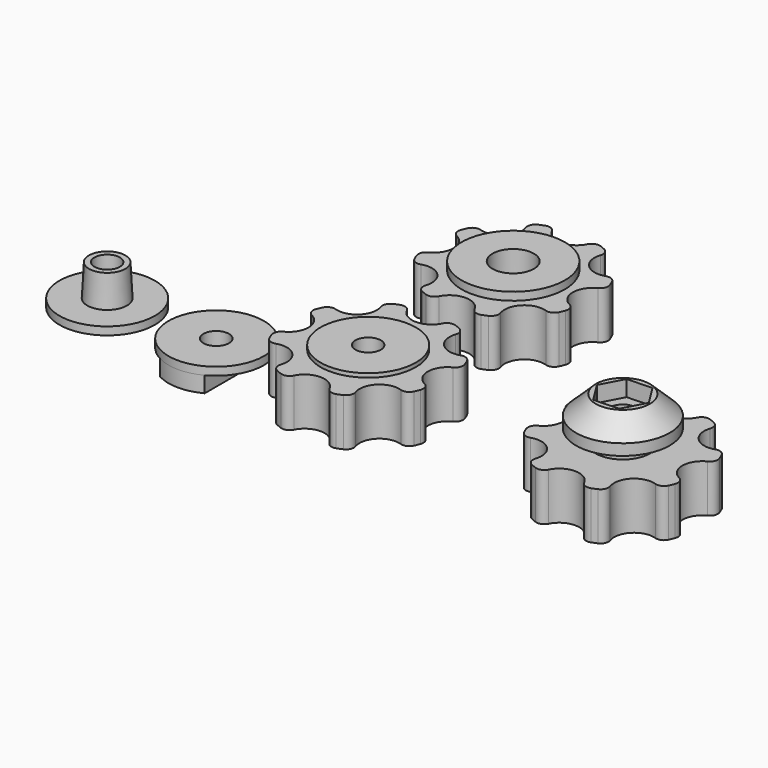
from build123d import *

# Parameters (mm, degrees)
F0_R      = 6
F1_DEPTH  = 1
F2_R      = 2.5
F3_DEPTH  = 4
F3_TAPER  = 3
F4_R      = 1.6
F5_DEPTH  = 25
F6_R      = 6
F6_R_2    = 1.6
F7_DEPTH  = 1
F8_R      = 1.6
F9_DEPTH  = 2
F10_R     = 1.6
F11_DEPTH = 6
F12_R     = 6
F12_R_2   = 1.6
F13_DEPTH = 0.5
F15_DEPTH = 3
F18_R     = 1.6
F19_DEPTH = 25
F21_DEPTH = 2
F22_R     = 13.3783458348
F23_DEPTH = 25
F24_R     = 2.6
F25_DEPTH = 6
F26_R     = 6.5
F26_R_2   = 2.6
F27_DEPTH = 1


with BuildPart() as f1:
    # F0 (on Top) → F1 (new body)
    with BuildSketch(Plane.XY):
        Circle(F0_R)
    extrude(amount=F1_DEPTH)

    # F2 (on face) → F3 (join)
    with BuildSketch(Plane.XY.offset(1)):
        Circle(F2_R)
    extrude(amount=F3_DEPTH, taper=F3_TAPER)

    # F4 (on face) → F5 (cut)
    with BuildSketch(Plane(origin=(0, 0, 0), x_dir=(1, 0, 0), z_dir=(0, 0, -1))):
        Circle(F4_R)
    extrude(amount=-F5_DEPTH, mode=Mode.SUBTRACT)


with BuildPart() as f7:
    # F6 (on Top) → F7 (new body)
    with BuildSketch(Plane.XY):
        with Locations((13.7166492641, 0)):
            Circle(F6_R)
        with Locations((13.7166492641, 0)):
            Circle(F6_R_2, mode=Mode.SUBTRACT)
    extrude(amount=F7_DEPTH)

    # F8 (on face) → F9 (join)
    with BuildSketch(Plane(origin=(0, 0, 0), x_dir=(1, 0, 0), z_dir=(0, 0, -1))):
        with BuildLine():
            ThreePointArc((16.5166492641, 5.3065996646), (13.7166492641, 6), (10.9166492641, 5.3065996646))
            Line((10.9166492641, 5.3065996646), (10.9166492641, -5.3065996646))
            ThreePointArc((10.9166492641, -5.3065996646), (13.7166492641, -6), (16.5166492641, -5.3065996646))
            Line((16.5166492641, -5.3065996646), (16.5166492641, 5.3065996646))
        make_face()
        with Locations((13.7166492641, 0)):
            Circle(F8_R, mode=Mode.SUBTRACT)
    extrude(amount=F9_DEPTH)


with BuildPart() as f11:
    # F10 (on Top) → F11 (new body)
    with BuildSketch(Plane.XY):
        with BuildLine():
            ThreePointArc((37.5331200351, 7.8637180754), (37.5021955155, 8.5785579566), (37.0015644506, 9.0897535343))
            ThreePointArc((37.0015644506, 9.0897535343), (36.6599001613, 9.2387953251), (36.3129185644, 9.375))
            ThreePointArc((36.3129185644, 9.375), (35.5974490841, 9.3675297614), (35.0701140191, 8.8839285714))
            ThreePointArc((35.0701140191, 8.8839285714), (32.8330658376, 7.5), (30.5960176561, 8.8839285714))
            ThreePointArc((30.5960176561, 8.8839285714), (30.0686825912, 9.3675297614), (29.3532131109, 9.375))
            ThreePointArc((29.3532131109, 9.375), (29.006231514, 9.2387953251), (28.6645672246, 9.0897535343))
            ThreePointArc((28.6645672246, 9.0897535343), (28.1639361597, 8.5785579566), (28.1330116402, 7.8637180754))
            ThreePointArc((28.1330116402, 7.8637180754), (27.5297649787, 5.3033008589), (24.9693477622, 4.7000541975))
            ThreePointArc((24.9693477622, 4.7000541975), (24.254507881, 4.6691296779), (23.7433123034, 4.168498613))
            ThreePointArc((23.7433123034, 4.168498613), (23.5942705125, 3.8268343237), (23.4580658376, 3.4798527268))
            ThreePointArc((23.4580658376, 3.4798527268), (23.4655360762, 2.7643832465), (23.9491372662, 2.2370481815))
            ThreePointArc((23.9491372662, 2.2370481815), (25.3330658376, 0), (23.9491372662, -2.2370481815))
            ThreePointArc((23.9491372662, -2.2370481815), (23.4655360762, -2.7643832465), (23.4580658376, -3.4798527268))
            ThreePointArc((23.4580658376, -3.4798527268), (23.5942705125, -3.8268343237), (23.7433123034, -4.168498613))
            ThreePointArc((23.7433123034, -4.168498613), (24.254507881, -4.6691296779), (24.9693477622, -4.7000541975))
            ThreePointArc((24.9693477622, -4.7000541975), (27.5297649787, -5.3033008589), (28.1330116402, -7.8637180754))
            ThreePointArc((28.1330116402, -7.8637180754), (28.1639361597, -8.5785579566), (28.6645672246, -9.0897535343))
            ThreePointArc((28.6645672246, -9.0897535343), (29.006231514, -9.2387953251), (29.3532131109, -9.375))
            ThreePointArc((29.3532131109, -9.375), (30.0686825912, -9.3675297614), (30.5960176561, -8.8839285714))
            ThreePointArc((30.5960176561, -8.8839285714), (32.8330658376, -7.5), (35.0701140191, -8.8839285714))
            ThreePointArc((35.0701140191, -8.8839285714), (35.5974490841, -9.3675297614), (36.3129185644, -9.375))
            ThreePointArc((36.3129185644, -9.375), (36.6599001613, -9.2387953251), (37.0015644506, -9.0897535343))
            ThreePointArc((37.0015644506, -9.0897535343), (37.5021955155, -8.5785579566), (37.5331200351, -7.8637180754))
            ThreePointArc((37.5331200351, -7.8637180754), (38.1363666965, -5.3033008589), (40.696783913, -4.7000541975))
            ThreePointArc((40.696783913, -4.7000541975), (41.4116237943, -4.6691296779), (41.9228193719, -4.168498613))
            ThreePointArc((41.9228193719, -4.168498613), (42.0718611627, -3.8268343237), (42.2080658376, -3.4798527268))
            ThreePointArc((42.2080658376, -3.4798527268), (42.2005955991, -2.7643832465), (41.7169944091, -2.2370481815))
            ThreePointArc((41.7169944091, -2.2370481815), (40.3330658376, 0), (41.7169944091, 2.2370481815))
            ThreePointArc((41.7169944091, 2.2370481815), (42.2005955991, 2.7643832465), (42.2080658376, 3.4798527268))
            ThreePointArc((42.2080658376, 3.4798527268), (42.0718611627, 3.8268343237), (41.9228193719, 4.168498613))
            ThreePointArc((41.9228193719, 4.168498613), (41.4116237943, 4.6691296779), (40.696783913, 4.7000541975))
            ThreePointArc((40.696783913, 4.7000541975), (38.1363666965, 5.3033008589), (37.5331200351, 7.8637180754))
        make_face()
        with Locations((32.8330658376, 0)):
            Circle(F10_R, mode=Mode.SUBTRACT)
    extrude(amount=F11_DEPTH)

    # F12 (on face) → F13 (join)
    with BuildSketch(Plane.XY.offset(6)):
        with Locations((32.8330658376, 0)):
            Circle(F12_R)
        with Locations((32.8330658376, 0)):
            Circle(F12_R_2, mode=Mode.SUBTRACT)
    extrude(amount=F13_DEPTH)

    # F14 (on face) → F15 (cut)
    with BuildSketch(Plane(origin=(0, 0, 0), x_dir=(1, 0, 0), z_dir=(0, 0, -1))):
        Polygon((35.5830658376, -1.5877132403), (35.5830658376, 1.5877132403), (32.8330658376, 3.1754264805), (30.0830658376, 1.5877132403), (30.0830658376, -1.5877132403), (32.8330658376, -3.1754264805), align=None)
    extrude(amount=-F15_DEPTH, mode=Mode.SUBTRACT)


with BuildPart() as f17:
    # F16 (on Front) → F17 (revolve)
    with BuildSketch(Plane.XZ):
        Polygon((68.263714773, 11.5), (64.863714773, 11.5), (64.863714773, 0), (74.863714773, 0), (74.863714773, 6), (68.263714773, 6), (68.263714773, 7.7), (70.763714773, 7.7), (70.763714773, 9.1), align=None)
    revolve(axis=Axis((64.863714773, 0, 5.75), (0, 0, 1)))

    # F18 (on face) → F19 (cut)
    with BuildSketch(Plane.XY.offset(11.5)):
        with Locations((64.863714773, 0)):
            Circle(F18_R)
    extrude(amount=-F19_DEPTH, mode=Mode.SUBTRACT)

    # F20 (on face) → F21 (cut)
    with BuildSketch(Plane.XY.offset(11.5)):
        Polygon((66.555835944, -2.6870167986), (68.0368001665, 0.1219115211), (66.3446789954, 2.8089283197), (63.1715936019, 2.6870167986), (61.6906293795, -0.1219115211), (63.3827505505, -2.8089283197), align=None)
    extrude(amount=-F21_DEPTH, mode=Mode.SUBTRACT)

    # F22 (on face) → F23 (cut)
    with BuildSketch(Plane(origin=(0, 0, 0), x_dir=(1, 0, 0), z_dir=(0, 0, -1))):
        with Locations((64.863714773, 0)):
            Circle(F22_R)
        with BuildLine():
            ThreePointArc((61.3838620462, 9.375), (62.0993315265, 9.3675297614), (62.6266665915, 8.8839285714))
            ThreePointArc((62.6266665915, 8.8839285714), (64.863714773, 7.5), (67.1007629545, 8.8839285714))
            ThreePointArc((67.1007629545, 8.8839285714), (67.6280980194, 9.3675297614), (68.3435674997, 9.375))
            ThreePointArc((68.3435674997, 9.375), (68.6905490966, 9.2387953251), (69.032213386, 9.0897535343))
            ThreePointArc((69.032213386, 9.0897535343), (69.5328444509, 8.5785579566), (69.5637689704, 7.8637180754))
            ThreePointArc((69.5637689704, 7.8637180754), (70.1670156319, 5.3033008589), (72.7274328484, 4.7000541975))
            ThreePointArc((72.7274328484, 4.7000541975), (73.4422727296, 4.6691296779), (73.9534683072, 4.168498613))
            ThreePointArc((73.9534683072, 4.168498613), (74.1025100981, 3.8268343237), (74.238714773, 3.4798527268))
            ThreePointArc((74.238714773, 3.4798527268), (74.2312445344, 2.7643832465), (73.7476433444, 2.2370481815))
            ThreePointArc((73.7476433444, 2.2370481815), (72.363714773, 0), (73.7476433444, -2.2370481815))
            ThreePointArc((73.7476433444, -2.2370481815), (74.2312445344, -2.7643832465), (74.238714773, -3.4798527268))
            ThreePointArc((74.238714773, -3.4798527268), (74.1025100981, -3.8268343237), (73.9534683072, -4.168498613))
            ThreePointArc((73.9534683072, -4.168498613), (73.4422727296, -4.6691296779), (72.7274328484, -4.7000541975))
            ThreePointArc((72.7274328484, -4.7000541975), (70.1670156319, -5.3033008589), (69.5637689704, -7.8637180754))
            ThreePointArc((69.5637689704, -7.8637180754), (69.5328444509, -8.5785579566), (69.032213386, -9.0897535343))
            ThreePointArc((69.032213386, -9.0897535343), (68.6905490966, -9.2387953251), (68.3435674997, -9.375))
            ThreePointArc((68.3435674997, -9.375), (67.6280980194, -9.3675297614), (67.1007629545, -8.8839285714))
            ThreePointArc((67.1007629545, -8.8839285714), (64.863714773, -7.5), (62.6266665915, -8.8839285714))
            ThreePointArc((62.6266665915, -8.8839285714), (62.0993315265, -9.3675297614), (61.3838620462, -9.375))
            ThreePointArc((61.3838620462, -9.375), (61.0368804493, -9.2387953251), (60.69521616, -9.0897535343))
            ThreePointArc((60.69521616, -9.0897535343), (60.1945850951, -8.5785579566), (60.1636605755, -7.8637180754))
            ThreePointArc((60.1636605755, -7.8637180754), (59.5604139141, -5.3033008589), (56.9999966976, -4.7000541975))
            ThreePointArc((56.9999966976, -4.7000541975), (56.2851568163, -4.6691296779), (55.7739612387, -4.168498613))
            ThreePointArc((55.7739612387, -4.168498613), (55.6249194479, -3.8268343237), (55.488714773, -3.4798527268))
            ThreePointArc((55.488714773, -3.4798527268), (55.4961850116, -2.7643832465), (55.9797862016, -2.2370481815))
            ThreePointArc((55.9797862016, -2.2370481815), (57.363714773, 0), (55.9797862016, 2.2370481815))
            ThreePointArc((55.9797862016, 2.2370481815), (55.4961850116, 2.7643832465), (55.488714773, 3.4798527268))
            ThreePointArc((55.488714773, 3.4798527268), (55.6249194479, 3.8268343237), (55.7739612387, 4.168498613))
            ThreePointArc((55.7739612387, 4.168498613), (56.2851568163, 4.6691296779), (56.9999966976, 4.7000541975))
            ThreePointArc((56.9999966976, 4.7000541975), (59.5604139141, 5.3033008589), (60.1636605755, 7.8637180754))
            ThreePointArc((60.1636605755, 7.8637180754), (60.1945850951, 8.5785579566), (60.69521616, 9.0897535343))
            ThreePointArc((60.69521616, 9.0897535343), (61.0368804493, 9.2387953251), (61.3838620462, 9.375))
        make_face(mode=Mode.SUBTRACT)
    extrude(amount=-F23_DEPTH, mode=Mode.SUBTRACT)


with BuildPart() as f25:
    # F24 (on Top) → F25 (new body)
    with BuildSketch(Plane.XY):
        with BuildLine():
            ThreePointArc((38.1240613217, 29.926204375), (38.0931368022, 30.6410442562), (37.5925057373, 31.1522398338))
            ThreePointArc((37.5925057373, 31.1522398338), (37.2508414479, 31.3012816247), (36.903859851, 31.4374862995))
            ThreePointArc((36.903859851, 31.4374862995), (36.1883903707, 31.430016061), (35.6610553058, 30.946414871))
            ThreePointArc((35.6610553058, 30.946414871), (33.4240071243, 29.5624862995), (31.1869589428, 30.946414871))
            ThreePointArc((31.1869589428, 30.946414871), (30.6596238778, 31.430016061), (29.9441543975, 31.4374862995))
            ThreePointArc((29.9441543975, 31.4374862995), (29.5971728006, 31.3012816247), (29.2555085113, 31.1522398338))
            ThreePointArc((29.2555085113, 31.1522398338), (28.7548774464, 30.6410442562), (28.7239529268, 29.926204375))
            ThreePointArc((28.7239529268, 29.926204375), (28.1207062654, 27.3657871584), (25.5602890489, 26.762540497))
            ThreePointArc((25.5602890489, 26.762540497), (24.8454491676, 26.7316159774), (24.33425359, 26.2309849125))
            ThreePointArc((24.33425359, 26.2309849125), (24.1852117992, 25.8893206232), (24.0490071243, 25.5423390263))
            ThreePointArc((24.0490071243, 25.5423390263), (24.0564773628, 24.826869546), (24.5400785528, 24.299534481))
            ThreePointArc((24.5400785528, 24.299534481), (25.9240071243, 22.0624862995), (24.5400785528, 19.8254381181))
            ThreePointArc((24.5400785528, 19.8254381181), (24.0564773628, 19.2981030531), (24.0490071243, 18.5826335728))
            ThreePointArc((24.0490071243, 18.5826335728), (24.1852117992, 18.2356519759), (24.33425359, 17.8939876866))
            ThreePointArc((24.33425359, 17.8939876866), (24.8454491676, 17.3933566216), (25.5602890489, 17.3624321021))
            ThreePointArc((25.5602890489, 17.3624321021), (28.1207062654, 16.7591854406), (28.7239529268, 14.1987682241))
            ThreePointArc((28.7239529268, 14.1987682241), (28.7548774464, 13.4839283429), (29.2555085113, 12.9727327653))
            ThreePointArc((29.2555085113, 12.9727327653), (29.5971728006, 12.8236909744), (29.9441543975, 12.6874862995))
            ThreePointArc((29.9441543975, 12.6874862995), (30.6596238778, 12.6949565381), (31.1869589428, 13.1785577281))
            ThreePointArc((31.1869589428, 13.1785577281), (33.4240071243, 14.5624862995), (35.6610553058, 13.1785577281))
            ThreePointArc((35.6610553058, 13.1785577281), (36.1883903707, 12.6949565381), (36.903859851, 12.6874862995))
            ThreePointArc((36.903859851, 12.6874862995), (37.2508414479, 12.8236909744), (37.5925057373, 12.9727327653))
            ThreePointArc((37.5925057373, 12.9727327653), (38.0931368022, 13.4839283429), (38.1240613217, 14.1987682241))
            ThreePointArc((38.1240613217, 14.1987682241), (38.7273079832, 16.7591854406), (41.2877251997, 17.3624321021))
            ThreePointArc((41.2877251997, 17.3624321021), (42.0025650809, 17.3933566216), (42.5137606585, 17.8939876866))
            ThreePointArc((42.5137606585, 17.8939876866), (42.6628024494, 18.2356519759), (42.7990071243, 18.5826335728))
            ThreePointArc((42.7990071243, 18.5826335728), (42.7915368857, 19.2981030531), (42.3079356957, 19.8254381181))
            ThreePointArc((42.3079356957, 19.8254381181), (40.9240071243, 22.0624862995), (42.3079356957, 24.299534481))
            ThreePointArc((42.3079356957, 24.299534481), (42.7915368857, 24.826869546), (42.7990071243, 25.5423390263))
            ThreePointArc((42.7990071243, 25.5423390263), (42.6628024494, 25.8893206232), (42.5137606585, 26.2309849125))
            ThreePointArc((42.5137606585, 26.2309849125), (42.0025650809, 26.7316159774), (41.2877251997, 26.762540497))
            ThreePointArc((41.2877251997, 26.762540497), (38.7273079832, 27.3657871584), (38.1240613217, 29.926204375))
        make_face()
        with Locations((33.4240071243, 22.0624862995)):
            Circle(F24_R, mode=Mode.SUBTRACT)
    extrude(amount=F25_DEPTH)

    # F26 (on face) → F27 (join)
    with BuildSketch(Plane.XY.offset(6)):
        with Locations((33.4240071243, 22.0624862995)):
            Circle(F26_R)
        with Locations((33.4240071243, 22.0624862995)):
            Circle(F26_R_2, mode=Mode.SUBTRACT)
    extrude(amount=F27_DEPTH)


solid = Compound([f1.part, f7.part, f11.part, f17.part, f25.part])
